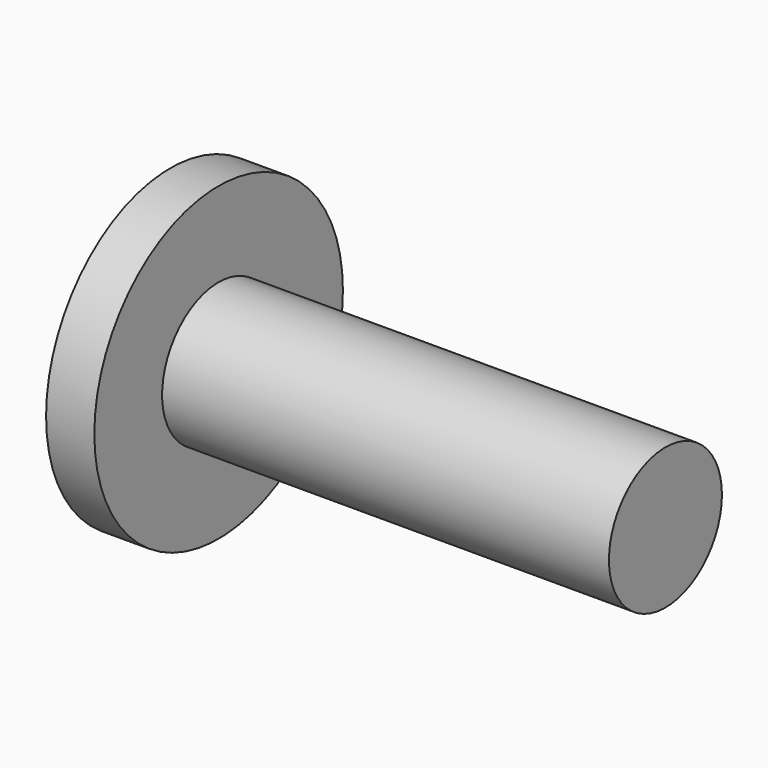
from build123d import *

# Parameters (mm, degrees)
F0_R     = 3.95
F1_DEPTH = 25
F2_R     = 8.692207
F3_DEPTH = 2.7


with BuildPart() as f1:
    # F0 (on Right) → F1 (new body)
    with BuildSketch(Plane.YZ):
        Circle(F0_R)
    extrude(amount=F1_DEPTH)

    # F2 (on Right) → F3 (join)
    with BuildSketch(Plane.YZ):
        Circle(F2_R)
    extrude(amount=-F3_DEPTH)


solid = f1.part
